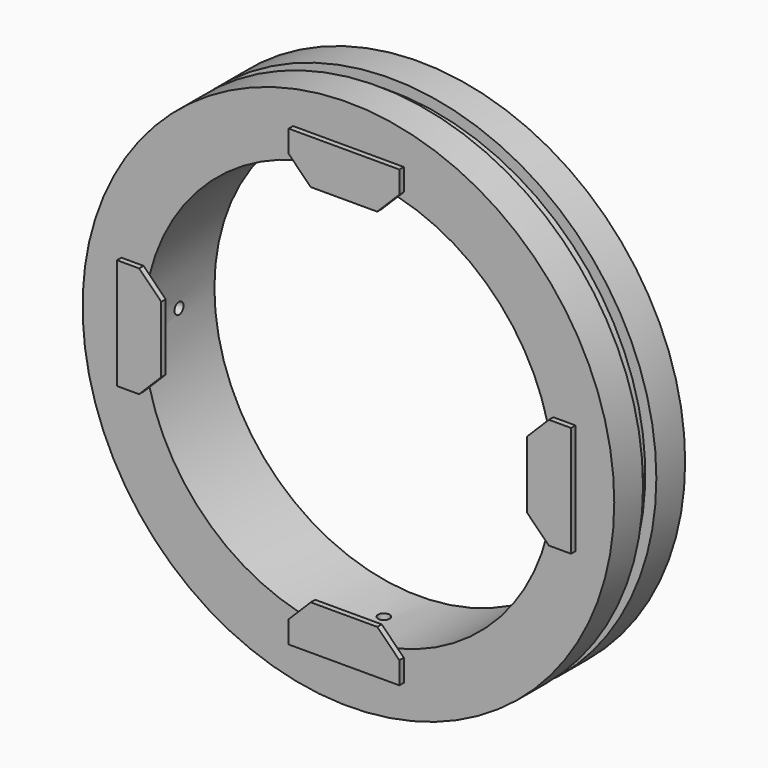
from build123d import *

# Parameters (mm, degrees)
F0_R      = 152.4
F0_R_2    = 117.475
F1_DEPTH  = 25.4
F2_W      = 6.35
F2_H      = 9.525
F6_D      = 6.5278
F9_D      = 6.5278
F11_DEPTH = 3.175


with BuildPart() as f1:
    # F0 (on Front) → F1 (new body, symmetric)
    with BuildSketch(Plane.XZ):
        Circle(F0_R)
        Circle(F0_R_2, mode=Mode.SUBTRACT)
    extrude(amount=F1_DEPTH, both=True)

    # F2 (on Top) → F3 (revolve, cut)
    with BuildSketch(Plane.XY):
        with Locations((-149.225, 0)):
            Rectangle(F2_W, F2_H)
    revolve(axis=Axis((0, -5.8908760548, 0), (0, 1, 0)), mode=Mode.SUBTRACT)

    # F6 (through all)
    with Locations(Plane(origin=(0, 0, -152.4), x_dir=(1, 0, 0), z_dir=(0, 0, -1))):
        with Locations((0, 0)):
            Hole(F6_D / 2)

    # F9 (through all)
    with Locations(Plane.YZ.offset(152.4)):
        with Locations((0, 0)):
            Hole(F9_D / 2)

    # F10 (on face) → F11 (join)
    with BuildSketch(Plane.XZ.offset(25.4)):
        Polygon((31.75, 130.175), (-31.75, 130.175), (-31.75, 117.475), (-19.05, 104.775), (19.05, 104.775), (31.75, 117.475), align=None)
        Polygon((-130.175, 31.75), (-130.175, -31.75), (-117.475, -31.75), (-104.775, -19.05), (-104.775, 19.05), (-117.475, 31.75), align=None)
        Polygon((-31.75, -130.175), (31.75, -130.175), (31.75, -117.475), (19.05, -104.775), (-19.05, -104.775), (-31.75, -117.475), align=None)
        Polygon((130.175, -31.75), (130.175, 31.75), (117.475, 31.75), (104.775, 19.05), (104.775, -19.05), (117.475, -31.75), align=None)
    extrude(amount=F11_DEPTH)


solid = f1.part
